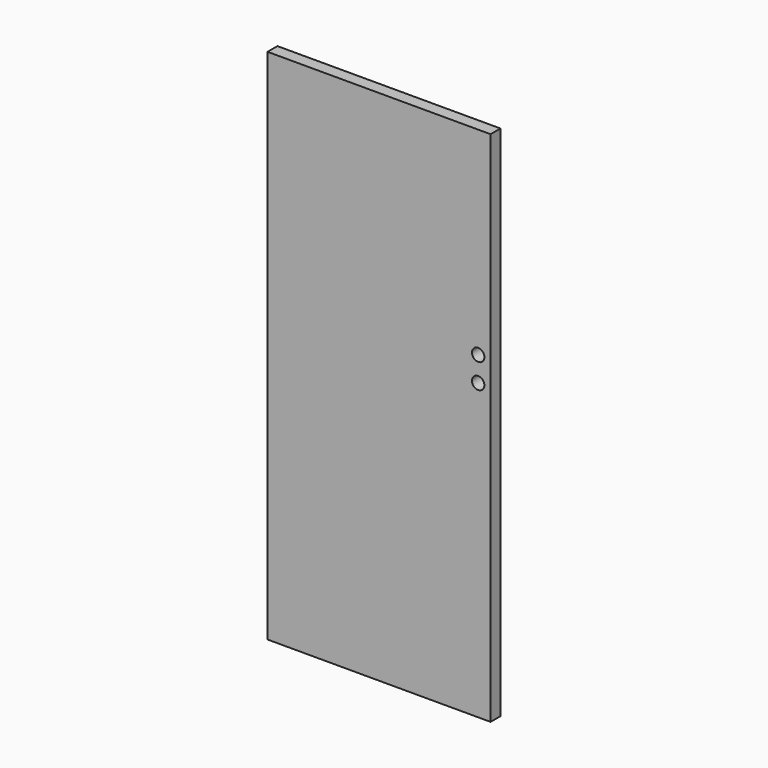
from build123d import *

# Parameters (mm, degrees)
F0_W     = 914.4
F0_H     = 2120.9
F1_DEPTH = 50.8
F2_R     = 25.4
F3_DEPTH = 50.801


with BuildPart() as f1:
    # F0 (on Front) → F1 (new body)
    with BuildSketch(Plane.XZ):
        Rectangle(F0_W, F0_H)
    extrude(amount=F1_DEPTH)

    # F2 (on face) → F3 (cut, through all)
    with BuildSketch(Plane.XZ.offset(50.8)):
        with Locations((406.4, 247.65)):
            Circle(F2_R)
        with Locations((406.4, 146.05)):
            Circle(F2_R)
    extrude(amount=-F3_DEPTH, mode=Mode.SUBTRACT)


solid = f1.part
